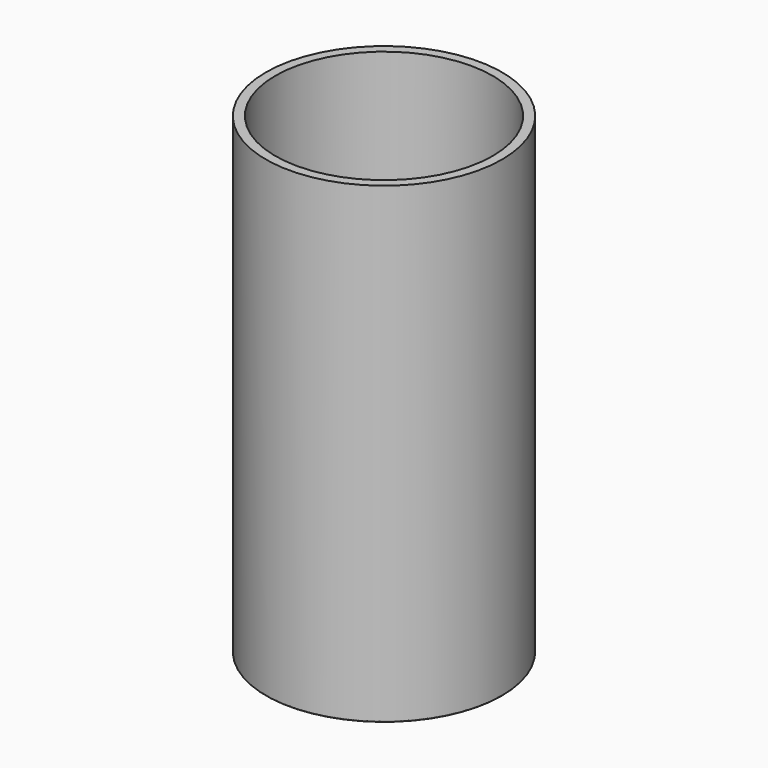
from build123d import *

# Parameters (mm, degrees)
F0_R     = 12.5
F1_DEPTH = 50
F2_T     = -1
F3_R     = 0.1


with BuildPart() as f1:
    # F0 (on Top) → F1 (new body)
    with BuildSketch(Plane.XY):
        Circle(F0_R)
    extrude(amount=F1_DEPTH)

    # F2
    f2_openings = [f1.faces().sort_by_distance(p)[0] for p in [
        (0, 0, 50),
    ]]
    offset(amount=F2_T, openings=f2_openings)

    # F3
    f3_edges = [f1.edges().sort_by_distance(p)[0] for p in [
        (-12.5, 0, 0),
    ]]
    fillet(f3_edges, radius=F3_R)


solid = f1.part
